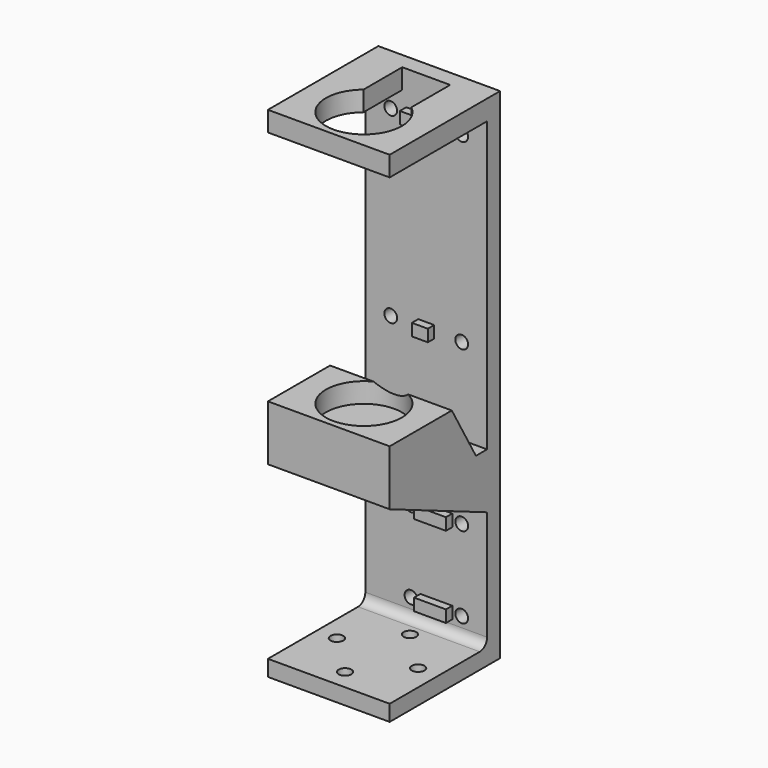
from build123d import *

# Parameters (mm, degrees)
SKETCH_W          = 30.48
SKETCH_H          = 125
SKETCH_R          = 1.6
PAD_DEPTH         = 4.064
SKETCH001_W       = 30.48
SKETCH001_H       = 30.48
SKETCH001_R       = 1.6
PAD001_DEPTH      = 4
FILLET_R          = 2.286
PAD002_DEPTH      = 5
SKETCH003_W       = 4
SKETCH003_H       = 3
SKETCH003_W_2     = 10
PAD003_DEPTH      = 2
PAD004_DEPTH      = 15.24
PAD004_DEPTH_BACK = 15.24
SKETCH005_R       = 9.5
POCKET_DEPTH      = 5
SKETCH006_W       = 8
SKETCH006_H       = 3
PAD005_DEPTH      = 2
SKETCH007_W       = 6
SKETCH007_H       = 7
POCKET001_DEPTH   = 10


with BuildPart() as part:
    # Sketch → Pad (new body)
    with BuildSketch(Plane.XZ):
        with Locations((0, 62.5)):
            Rectangle(SKETCH_W, SKETCH_H)
        with Locations((-8.89, 69.28)):
            Circle(SKETCH_R, mode=Mode.SUBTRACT)
        with Locations((8.89, 69.28)):
            Circle(SKETCH_R, mode=Mode.SUBTRACT)
        with Locations((-8.89, 115)):
            Circle(SKETCH_R, mode=Mode.SUBTRACT)
        with Locations((8.89, 115)):
            Circle(SKETCH_R, mode=Mode.SUBTRACT)
        with Locations((-3.81, 29.21)):
            Circle(SKETCH_R, mode=Mode.SUBTRACT)
        with Locations((8.89, 29.21)):
            Circle(SKETCH_R, mode=Mode.SUBTRACT)
        with Locations((-3.81, 8.89)):
            Circle(SKETCH_R, mode=Mode.SUBTRACT)
        with Locations((8.89, 8.89)):
            Circle(SKETCH_R, mode=Mode.SUBTRACT)
    extrude(amount=-PAD_DEPTH)

    # Sketch001 → Pad001 (join)
    with BuildSketch(Plane.XY):
        with Locations((0, -15.24)):
            Rectangle(SKETCH001_W, SKETCH001_H)
        with Locations((0, -5.08)):
            Circle(SKETCH001_R, mode=Mode.SUBTRACT)
        with Locations((0, -25.4)):
            Circle(SKETCH001_R, mode=Mode.SUBTRACT)
        with Locations((10.16, -15.24)):
            Circle(SKETCH001_R, mode=Mode.SUBTRACT)
        with Locations((-10.16, -15.24)):
            Circle(SKETCH001_R, mode=Mode.SUBTRACT)
    extrude(amount=PAD001_DEPTH)

    # Fillet
    fillet_edges = [part.edges().sort_by_distance(p)[0] for p in [
        (0, 0, 4),
    ]]
    fillet(fillet_edges, radius=FILLET_R)

    # Sketch002 (on Face6 of Pad001) → Pad002 (join)
    with BuildSketch(Plane(origin=(0, 0, 125), x_dir=(-1, 0, 0), z_dir=(0, 0, 1))):
        with BuildLine():
            Line((-15.24, 30.48), (-15.24, 0))
            Line((-15.24, 0), (-6, 0))
            Line((-6, 0), (-6, 12.13454))
            ThreePointArc((6, 12.13454), (0, 29), (-6, 12.13454))
            Line((6, 12.13454), (6, 0))
            Line((6, 0), (15.24, 0))
            Line((15.24, 0), (15.24, 30.48))
            Line((15.24, 30.48), (-15.24, 30.48))
        make_face()
    extrude(amount=-PAD002_DEPTH)

    # Sketch003 (on Face3 of Pad002) → Pad003 (join)
    with BuildSketch(Plane.XZ):
        with Locations((0, 69.28)):
            Rectangle(SKETCH003_W, SKETCH003_H)
        with Locations((0, 115)):
            Rectangle(SKETCH003_W_2, SKETCH003_H)
    extrude(amount=PAD003_DEPTH)

    # Sketch004 → Pad004 (join, two sides)
    with BuildSketch(Plane.YZ) as pad004_sk:
        Polygon((0, 47.68), (-3.5, 47.68), (-11.040195, 60.74), (-30.48, 60.74), (-30.48, 46.87), (0, 33.81), align=None)
    extrude(amount=PAD004_DEPTH)
    extrude(pad004_sk.sketch, amount=-PAD004_DEPTH_BACK)

    # Sketch005 (on Face30 of Pad004) → Pocket (cut)
    with BuildSketch(Plane(origin=(0, 0, 60.74), x_dir=(-1, 0, 0), z_dir=(0, 0, 1))):
        with Locations((0, 19.5)):
            Circle(SKETCH005_R)
    extrude(amount=-POCKET_DEPTH, mode=Mode.SUBTRACT)

    # Sketch006 (on Face5 of Pocket) → Pad005 (join)
    with BuildSketch(Plane.XZ):
        with Locations((2.54, 29.21)):
            Rectangle(SKETCH006_W, SKETCH006_H)
        with Locations((2.54, 8.89)):
            Rectangle(SKETCH006_W, SKETCH006_H)
    extrude(amount=PAD005_DEPTH)

    # Sketch007 (on Face16 of Pad005) → Pocket001 (cut)
    with BuildSketch(Plane(origin=(0, 0, 47.68), x_dir=(-1, 0, 0), z_dir=(0, 0, 1))):
        with Locations((7.24, 3.5)):
            Rectangle(SKETCH007_W, SKETCH007_H)
    extrude(amount=POCKET001_DEPTH, mode=Mode.SUBTRACT)


solid = part.part
